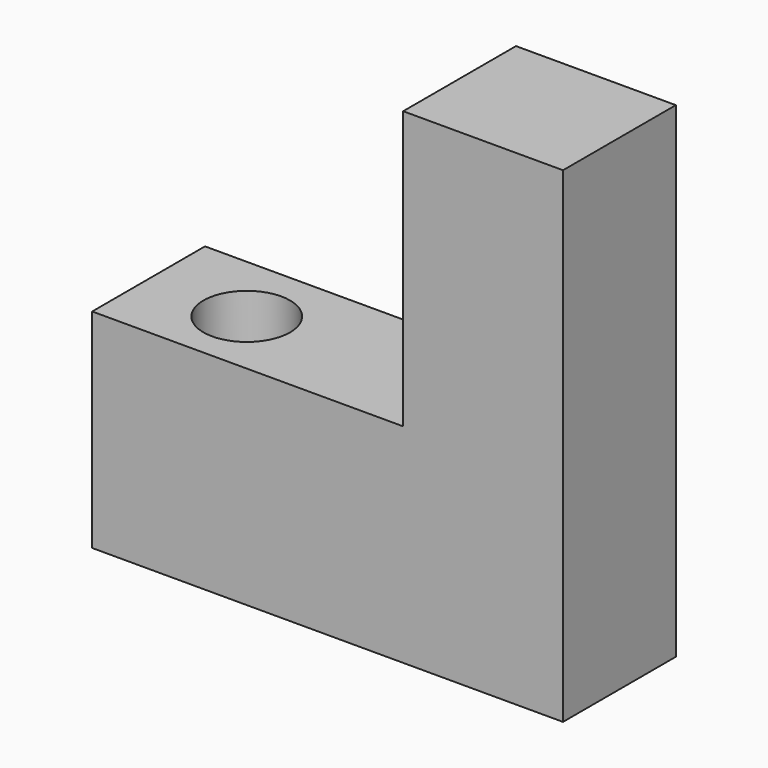
from build123d import *

# Parameters (mm, degrees)
F0_W     = 28.7874191999
F0_H     = 49.9707609415
F1_DEPTH = 25.4
F2_DEPTH = 25.4
F3_DEPTH = 25.4
F4_DEPTH = 25.4
F5_R     = 7.7956381062
F6_DEPTH = 38.1


with BuildPart() as f1:
    # F0 (on Front) → F1 (new body)
    with BuildSketch(Plane.XZ):
        with Locations((14.3937096, 24.9853804708)):
            Rectangle(F0_W, F0_H)
    extrude(amount=F1_DEPTH)

    # F0 (on Front) → F2 (join)
    with BuildSketch(Plane.XZ):
        with Locations((14.3937096, 24.9853804708)):
            Rectangle(F0_W, F0_H)
        Polygon((-56.0127794743, 0), (-56.0127794743, -37.5073552132), (28.7874191999, -37.5073552132), (28.7874191999, 0), (0, 0), align=None)
    extrude(amount=F2_DEPTH)

    # F3 (cut): a face of the model
    f3_faces = [f1.faces().sort_by_distance(p)[0] for p in [
        (0, -12.7, 24.9853804708),
    ]]
    extrude(f3_faces, amount=-F3_DEPTH, mode=Mode.SUBTRACT)

    # F0 (on Front) → F4 (join)
    with BuildSketch(Plane.XZ):
        with Locations((14.3937096, 24.9853804708)):
            Rectangle(F0_W, F0_H)
    extrude(amount=F4_DEPTH)

    # F5 (on face) → F6 (cut)
    with BuildSketch(Plane.XY):
        with Locations((-38.0956299985, -12.9956078465)):
            Circle(F5_R)
    extrude(amount=-F6_DEPTH, mode=Mode.SUBTRACT)


solid = f1.part
